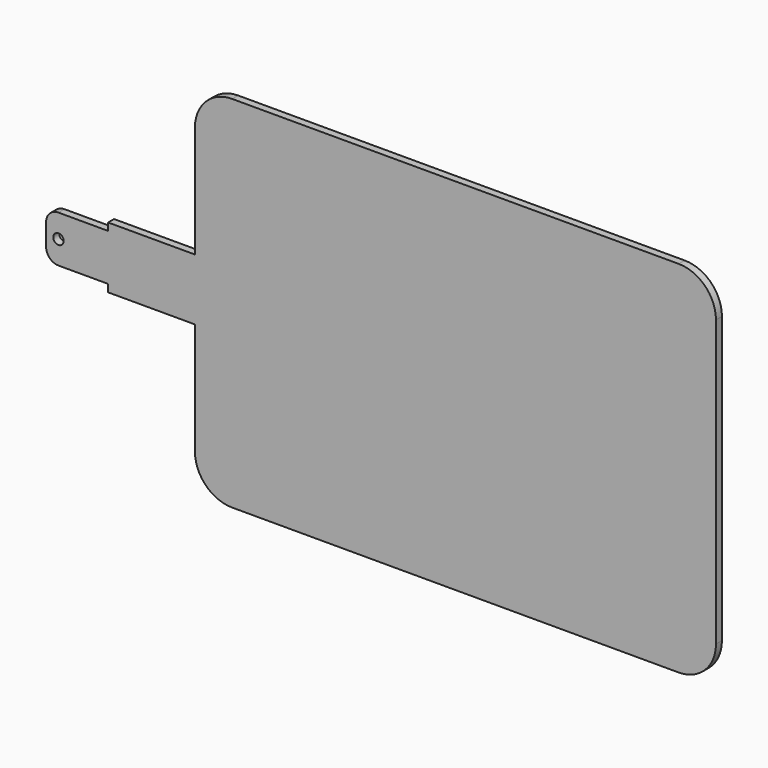
from build123d import *

# Parameters (mm, degrees)
F0_R     = 2.1
F1_DEPTH = 3


with BuildPart() as f1:
    # F0 (on Front) → F1 (new body)
    with BuildSketch(Plane.XZ):
        with BuildLine():
            Line((70, -72.5), (250, -72.5))
            ThreePointArc((250, -72.5), (260.606602, -68.106602), (265, -57.5))
            Line((265, -57.5), (265, 57.5))
            ThreePointArc((265, 57.5), (260.606602, 68.106602), (250, 72.5))
            Line((250, 72.5), (70, 72.5))
            ThreePointArc((70, 72.5), (59.393398, 68.106602), (55, 57.5))
            Line((55, 57.5), (55, 15.4))
            Line((55, 15.4), (55, 12.4))
            Line((55, 12.4), (20, 12.4))
            Line((20, 12.4), (20, 9.4))
            Line((20, 9.4), (0, 9.4))
            ThreePointArc((0, 9.4), (-3.535534, 7.935534), (-5, 4.4))
            Line((-5, 4.4), (-5, 0))
            Line((-5, 0), (-5, -4.4))
            ThreePointArc((-5, -4.4), (-3.535534, -7.935534), (0, -9.4))
            Line((0, -9.4), (20, -9.4))
            Line((20, -9.4), (20, -12.4))
            Line((20, -12.4), (55, -12.4))
            Line((55, -12.4), (55, -57.5))
            ThreePointArc((55, -57.5), (59.393398, -68.106602), (70, -72.5))
        make_face()
        Circle(F0_R, mode=Mode.SUBTRACT)
    extrude(amount=F1_DEPTH)


solid = f1.part
